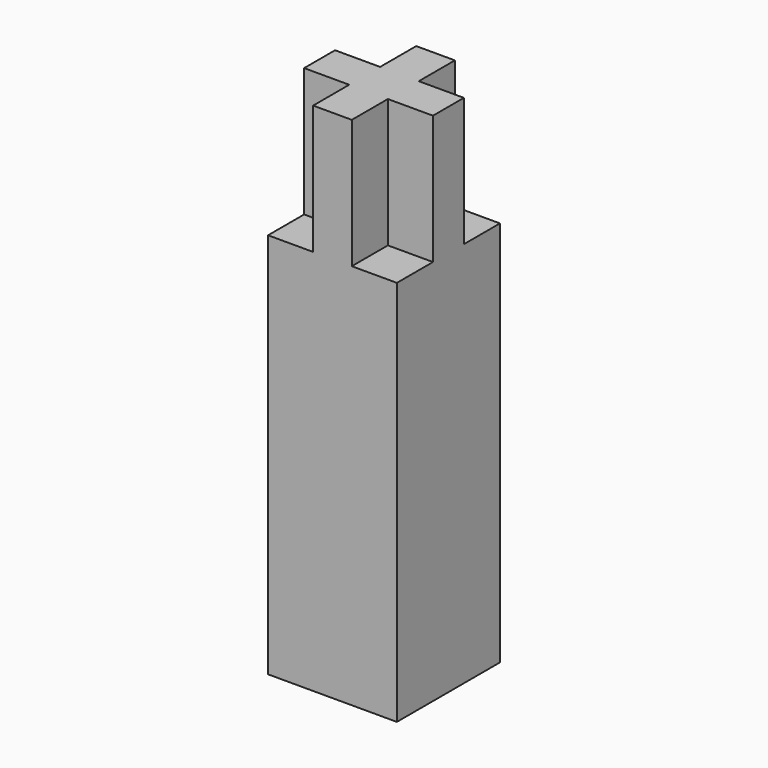
from build123d import *

# Parameters (mm, degrees)
F0_W     = 100
F0_H     = 100
F1_DEPTH = 300
F2_W     = 30
F2_H     = 35
F2_W_2   = 35
F2_H_2   = 30
F3_DEPTH = 100


with BuildPart() as f1:
    # F0 (on Top) → F1 (new body)
    with BuildSketch(Plane.XY):
        Rectangle(F0_W, F0_H)
    extrude(amount=F1_DEPTH)

    # F2 (on face) → F3 (join)
    with BuildSketch(Plane.XY.offset(300)):
        with Locations((0, 32.5)):
            Rectangle(F2_W, F2_H)
        with Locations((32.5, 0)):
            Rectangle(F2_W_2, F2_H_2)
        Rectangle(F2_W, F2_H_2)
        with Locations((-32.5, 0)):
            Rectangle(F2_W_2, F2_H_2)
        with Locations((0, -32.5)):
            Rectangle(F2_W, F2_H)
    extrude(amount=F3_DEPTH)


solid = f1.part
